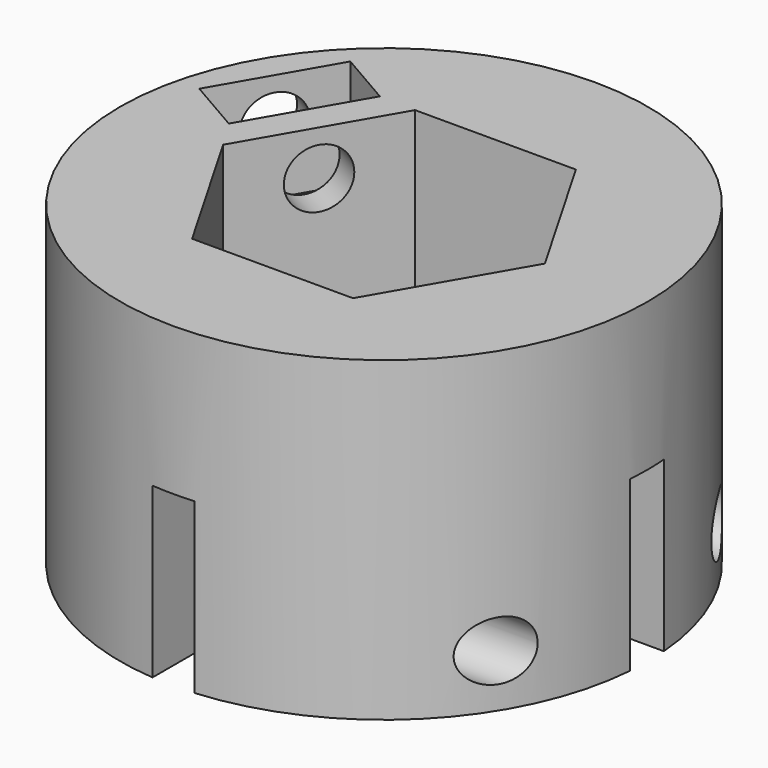
from build123d import *

# Parameters (mm, degrees)
F0_R           = 12.5
F1_DEPTH       = 15
F3_DEPTH       = 8
F5_DEPTH       = 9
F6_R           = 1.4
F7_DEPTH       = 5.9
F9_W           = 6
F9_H           = 6
F10_DEPTH      = 3
F11_R          = 1.4
F12_DEPTH      = 12.5010001
F12_DEPTH_BACK = 12.5010001


with BuildPart() as f1:
    # F0 (on Top) → F1 (new body)
    with BuildSketch(Plane.XY):
        Circle(F0_R)
    extrude(amount=F1_DEPTH)

    # F2 (on face) → F3 (cut)
    with BuildSketch(Plane(origin=(0, 0, 0), x_dir=(1, 0, 0), z_dir=(0, 0, -1))):
        with BuildLine():
            Line((-3.8729833462, 1), (-12.5, 1))
            Line((-12.5, 1), (-12.5, -1))
            Line((-12.5, -1), (-3.8729833462, -1))
            ThreePointArc((-3.8729833462, -1), (-2.8284271247, -2.8284271247), (-1, -3.8729833462))
            Line((-1, -3.8729833462), (-1, -12.5))
            Line((-1, -12.5), (1, -12.5))
            Line((1, -12.5), (1, -3.8729833462))
            ThreePointArc((1, -3.8729833462), (2.8284271247, -2.8284271247), (3.8729833462, -1))
            Line((3.8729833462, -1), (12.5, -1))
            Line((12.5, -1), (12.5, 1))
            Line((12.5, 1), (3.8729833462, 1))
            ThreePointArc((3.8729833462, 1), (2.8284271247, 2.8284271247), (1, 3.8729833462))
            Line((1, 3.8729833462), (1, 12.5))
            Line((1, 12.5), (-1, 12.5))
            Line((-1, 12.5), (-1, 3.8729833462))
            ThreePointArc((-1, 3.8729833462), (-2.8284271247, 2.8284271247), (-3.8729833462, 1))
        make_face()
    extrude(amount=-F3_DEPTH, mode=Mode.SUBTRACT)

    # F4 (on face) → F5 (cut)
    with BuildSketch(Plane.XY.offset(15)):
        Polygon((3.8105117767, 6.6), (-3.8105117767, 6.6), (-7.6210235533, 0), (-3.8105117767, -6.6), (3.8105117767, -6.6), (7.6210235533, 0), align=None)
    extrude(amount=-F5_DEPTH, mode=Mode.SUBTRACT)

    # F6 (on face) → F7 (cut, through all)
    with BuildSketch(Plane(origin=(-5.715767665, 3.3, 0), x_dir=(0.5, 0.8660254038, 0), z_dir=(0.8660254038, -0.5, 0))):
        with Locations((0, 12.8758029834)):
            Circle(F6_R)
    extrude(amount=-F7_DEPTH, mode=Mode.SUBTRACT)

    # F9 (on offset) → F10 (cut)
    with BuildSketch(Plane(origin=(-7.0148057707, 4.05, 0), x_dir=(0.5, 0.8660254038, 0), z_dir=(0.8660254038, -0.5, 0))):
        with Locations((0, 12.8758029834)):
            Rectangle(F9_W, F9_H)
    extrude(amount=-F10_DEPTH, mode=Mode.SUBTRACT)

    # F11 (on Right) → F12 (cut, two sides)
    with BuildSketch(Plane.YZ) as f12_sk:
        with Locations((6.542795848, 2.5)):
            Circle(F11_R)
        with Locations((-6.542795848, 2.5)):
            Circle(F11_R)
    extrude(amount=-F12_DEPTH, mode=Mode.SUBTRACT)
    extrude(f12_sk.sketch, amount=F12_DEPTH_BACK, mode=Mode.SUBTRACT)


solid = f1.part
